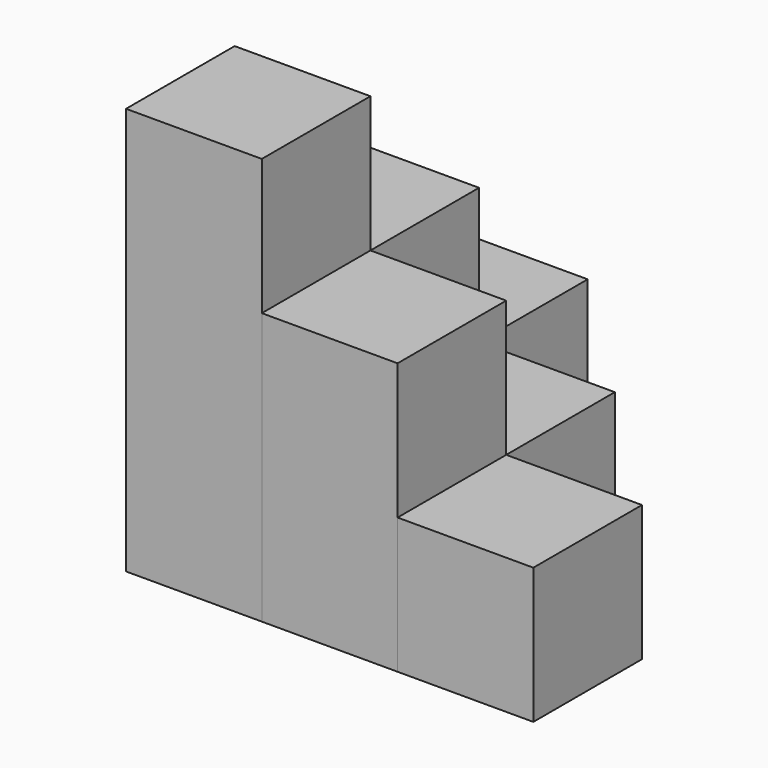
from build123d import *

# Parameters (mm, degrees)
BOX_W        = 10
BOX_H        = 10
BOX_DEPTH    = 30
BOX001_W     = 10
BOX001_H     = 10
BOX001_DEPTH = 20
BOX002_W     = 10
BOX002_H     = 10
BOX002_DEPTH = 20
BOX003_W     = 10
BOX003_H     = 10
BOX003_DEPTH = 10
BOX004_W     = 10
BOX004_H     = 10
BOX004_DEPTH = 10
BOX005_W     = 10
BOX005_H     = 10
BOX005_DEPTH = 10


with BuildPart() as cube:
    # Box → Box (new body)
    with BuildSketch(Plane.XY):
        with Locations((5, 5)):
            Rectangle(BOX_W, BOX_H)
    extrude(amount=BOX_DEPTH)


with BuildPart() as cube001:
    # Box001 → Box001 (new body)
    with BuildSketch(Plane(origin=(10, 0, 0), x_dir=(1, 0, 0), z_dir=(0, 0, 1))):
        with Locations((5, 5)):
            Rectangle(BOX001_W, BOX001_H)
    extrude(amount=BOX001_DEPTH)


with BuildPart() as cube002:
    # Box002 → Box002 (new body)
    with BuildSketch(Plane(origin=(0, 10, 0), x_dir=(1, 0, 0), z_dir=(0, 0, 1))):
        with Locations((5, 5)):
            Rectangle(BOX002_W, BOX002_H)
    extrude(amount=BOX002_DEPTH)


with BuildPart() as cube003:
    # Box003 → Box003 (new body)
    with BuildSketch(Plane(origin=(0, 20, 0), x_dir=(1, 0, 0), z_dir=(0, 0, 1))):
        with Locations((5, 5)):
            Rectangle(BOX003_W, BOX003_H)
    extrude(amount=BOX003_DEPTH)


with BuildPart() as cube004:
    # Box004 → Box004 (new body)
    with BuildSketch(Plane(origin=(20, 0, 0), x_dir=(1, 0, 0), z_dir=(0, 0, 1))):
        with Locations((5, 5)):
            Rectangle(BOX004_W, BOX004_H)
    extrude(amount=BOX004_DEPTH)


with BuildPart() as cube005:
    # Box005 → Box005 (new body)
    with BuildSketch(Plane(origin=(10, 10, 0), x_dir=(1, 0, 0), z_dir=(0, 0, 1))):
        with Locations((5, 5)):
            Rectangle(BOX005_W, BOX005_H)
    extrude(amount=BOX005_DEPTH)


solid = Compound([cube.part, cube001.part, cube002.part, cube003.part, cube004.part, cube005.part])
